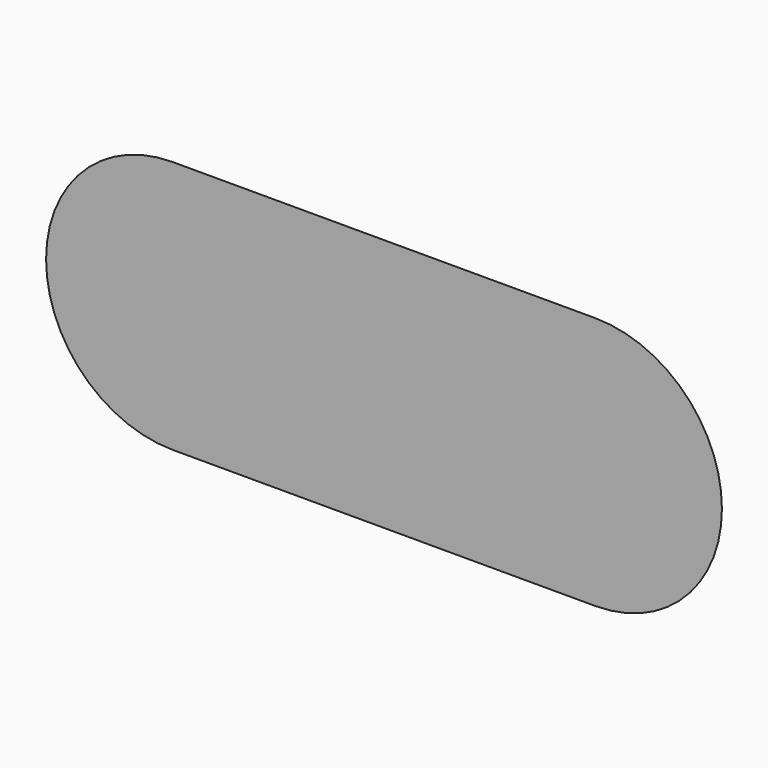
from build123d import *

# Parameters (mm, degrees)
REVOLUTION_ANGLE          = -90
PAD_DEPTH                 = 2
FUSION002_PLACEMENT_ANGLE = 90


with BuildPart() as body001:
    # Sketch001 → Revolution (revolve)
    with BuildSketch(Plane.YZ):
        with BuildLine():
            add(Edge.make_bspline(
                [(1.2, 0), (0.28, 0.03012), (0.35, 0.7), (0, 0.7)],
                knots=[0, 0, 0, 0, 1, 1, 1, 1], degree=3))
            Line((0, 0.7), (0, 0))
            Line((0, 0), (1.2, 0))
        make_face()
    revolve(axis=Axis((0, 0, 0), (0, 0, 1)), revolution_arc=REVOLUTION_ANGLE)


with BuildPart() as body001_1:
    # Body001 placement: moved
    add(body001.part.moved(Location((2, 0, 0))))


with BuildPart() as fusion:
    # Sketch → Pad (new body)
    with BuildSketch(Plane.YZ):
        with BuildLine():
            add(Edge.make_bspline(
                [(1.2, 0), (0.28, 0.03012), (0.35, 0.7), (0, 0.7)],
                knots=[0, 0, 0, 0, 1, 1, 1, 1], degree=3))
            Line((0, 0.7), (0, 0))
            Line((0, 0), (1.2, 0))
        make_face()
    extrude(amount=PAD_DEPTH)

    # Fusion: union Body001
    add(body001_1.part)


with BuildPart() as fusion001:
    # Part__Mirroring: instance of Fusion
    add(fusion.part.mirror(Plane(origin=(0, 0, 0), x_dir=(0, -1, 0), z_dir=(1, 0, 0))))

    # Fusion001: union Fusion
    add(fusion.part)


with BuildPart() as part_mirroring001:
    # Part__Mirroring001: instance of Fusion001
    add(fusion001.part.mirror(Plane(origin=(0, 0, 0), x_dir=(1, 0, 0), z_dir=(0, 1, 0))))


with BuildPart() as fusion002:
    # Fusion002 base: copy of Fusion001
    add(fusion001.part)

    # Fusion002: union Part__Mirroring001
    add(part_mirroring001.part)


with BuildPart() as fusion002_1:
    # Fusion002 placement: moved
    add(fusion002.part.rotate(Axis((0, 0, 0), (-1, 0, 0)), FUSION002_PLACEMENT_ANGLE))


solid = fusion002_1.part
